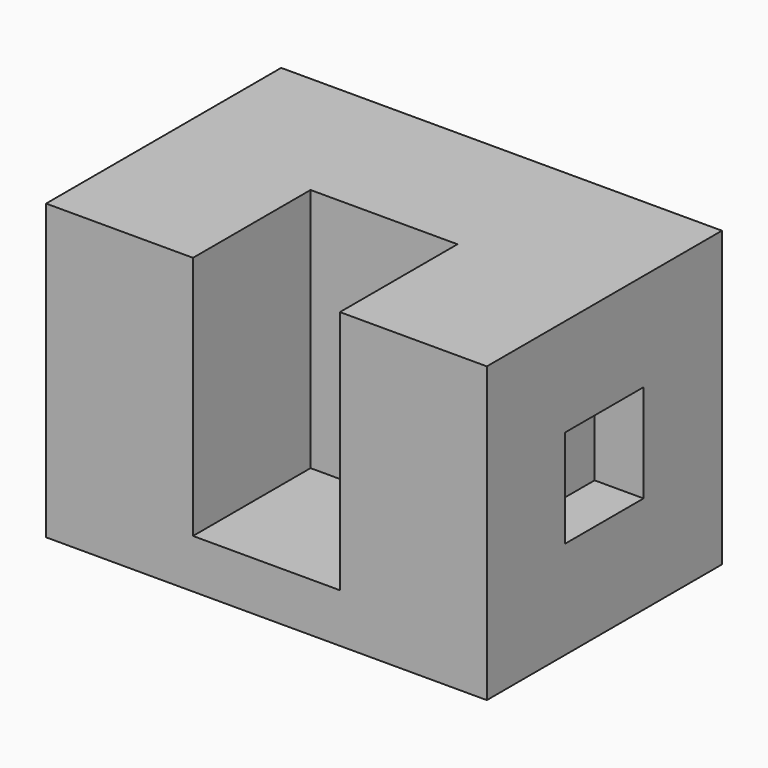
from build123d import *

# Parameters (mm, degrees)
F0_W     = 228.6
F0_H     = 152.4
F1_DEPTH = 76.2
F2_W     = 50.8
F2_H     = 50.8
F3_DEPTH = 25.4
F4_W     = 76.2
F4_H     = 127
F5_DEPTH = 76.2


with BuildPart() as f1:
    # F0 (on Top) → F1 (new body, symmetric)
    with BuildSketch(Plane.XY):
        Rectangle(F0_W, F0_H)
    extrude(amount=F1_DEPTH, both=True)

    # F2 (on face) → F3 (cut)
    with BuildSketch(Plane.YZ.offset(114.3)):
        Rectangle(F2_W, F2_H)
    extrude(amount=-F3_DEPTH, mode=Mode.SUBTRACT)

    # F4 (on face) → F5 (cut)
    with BuildSketch(Plane.XZ.offset(76.2)):
        with Locations((0, 12.7)):
            Rectangle(F4_W, F4_H)
    extrude(amount=-F5_DEPTH, mode=Mode.SUBTRACT)


solid = f1.part
